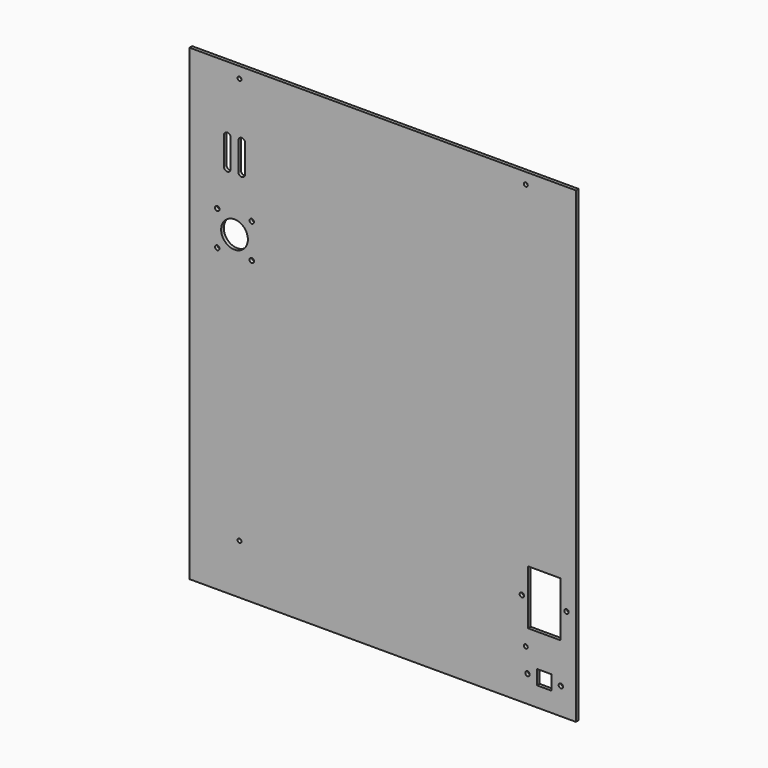
from build123d import *

# Parameters (mm, degrees)
SKETCH_W        = 347
SKETCH_H        = 420
PAD_DEPTH       = 3
SKETCH001_R     = 1.75
POCKET_DEPTH    = 3.001
SKETCH002_R     = 2
SKETCH002_R_2   = 12
POCKET001_DEPTH = 5
SKETCH003_R     = 2
SKETCH003_W     = 29
SKETCH003_H     = 49
SKETCH003_W_2   = 13
SKETCH003_H_2   = 13
POCKET002_DEPTH = 3.001


with BuildPart() as part:
    # Sketch → Pad (new body)
    with BuildSketch(Plane.XZ):
        with Locations((173.5, 210)):
            Rectangle(SKETCH_W, SKETCH_H)
    extrude(amount=PAD_DEPTH)

    # Sketch001 (on Face6 of Pad) → Pocket (cut, through all)
    with BuildSketch(Plane.XZ.offset(3)):
        with Locations((45, 45)):
            Circle(SKETCH001_R)
        with Locations((302, 45)):
            Circle(SKETCH001_R)
        with Locations((302, 410)):
            Circle(SKETCH001_R)
        with Locations((45, 410)):
            Circle(SKETCH001_R)
    extrude(amount=-POCKET_DEPTH, mode=Mode.SUBTRACT)

    # Sketch002 (on Face5 of Pocket) → Pocket001 (cut)
    with BuildSketch(Plane.XZ.offset(3)):
        with Locations((25, 301)):
            Circle(SKETCH002_R)
        with Locations((25, 270)):
            Circle(SKETCH002_R)
        with Locations((56, 270)):
            Circle(SKETCH002_R)
        with Locations((56, 301)):
            Circle(SKETCH002_R)
        with Locations((40.5, 285.5)):
            Circle(SKETCH002_R_2)
        with BuildLine():
            ThreePointArc((37, 361), (34, 364), (31, 361))
            Line((31, 361), (31, 336))
            ThreePointArc((31, 336), (34, 333), (37, 336))
            Line((37, 361), (37, 336))
        make_face()
        with BuildLine():
            ThreePointArc((50, 361), (47, 364), (44, 361))
            Line((44, 361), (44, 336))
            ThreePointArc((44, 336), (47, 333), (50, 336))
            Line((50, 361), (50, 336))
        make_face()
    extrude(amount=-POCKET001_DEPTH, mode=Mode.SUBTRACT)

    # Sketch003 (on Face5 of Pocket001) → Pocket002 (cut, through all)
    with BuildSketch(Plane.XZ.offset(3)):
        with Locations((298.5, 84.5)):
            Circle(SKETCH003_R)
        with Locations((338.5, 84.5)):
            Circle(SKETCH003_R)
        with Locations((303.5, 24)):
            Circle(SKETCH003_R)
        with Locations((333.5, 24)):
            Circle(SKETCH003_R)
        with Locations((318.5, 84.5)):
            Rectangle(SKETCH003_W, SKETCH003_H)
        with Locations((318.5, 24)):
            Rectangle(SKETCH003_W_2, SKETCH003_H_2)
    extrude(amount=-POCKET002_DEPTH, mode=Mode.SUBTRACT)


solid = part.part
